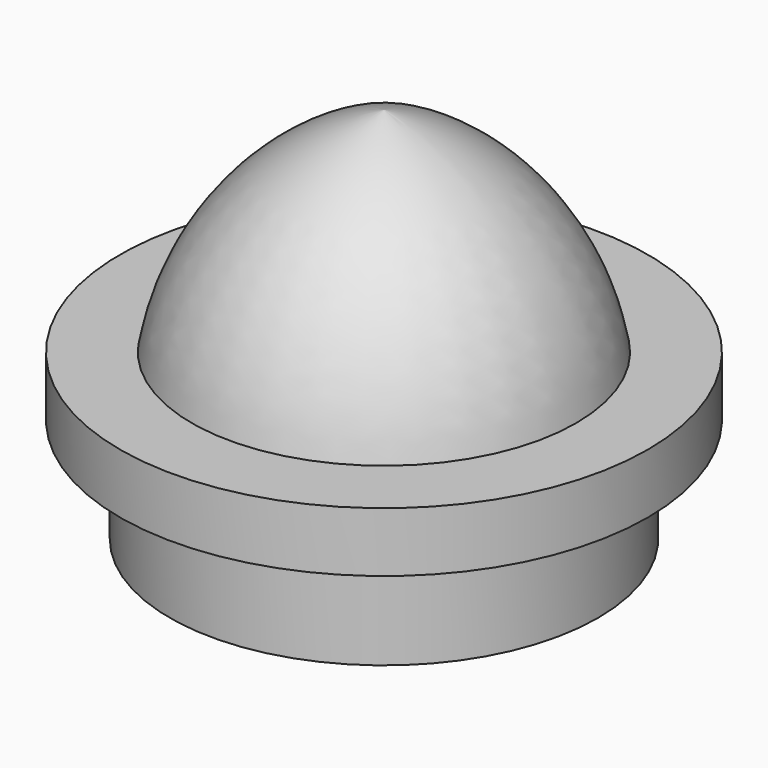
from build123d import *


with BuildPart() as f1:
    # F0 (on Front) → F1 (revolve)
    with BuildSketch(Plane.XZ):
        Polygon((0, 12.245421), (0, 0), (15.956163, 0), (15.956163, 7.792539), (19.666897, 7.792539), (19.666897, 12.245421), align=None)
    revolve(axis=Axis((0, 0, 6.122711), (0, 0, -1)))

    # F2 (on Front) → F3 (revolve)
    with BuildSketch(Plane.XZ):
        with BuildLine():
            Line((0, 11.357688), (14.455239, 11.357688))
            ThreePointArc((14.455239, 11.357688), (9.754734, 21.924096), (0, 28.136089))
            Line((0, 28.136089), (0, 11.357688))
        make_face()
    revolve(axis=Axis((0, 0, 19.746889), (0, 0, -1)))


solid = f1.part
